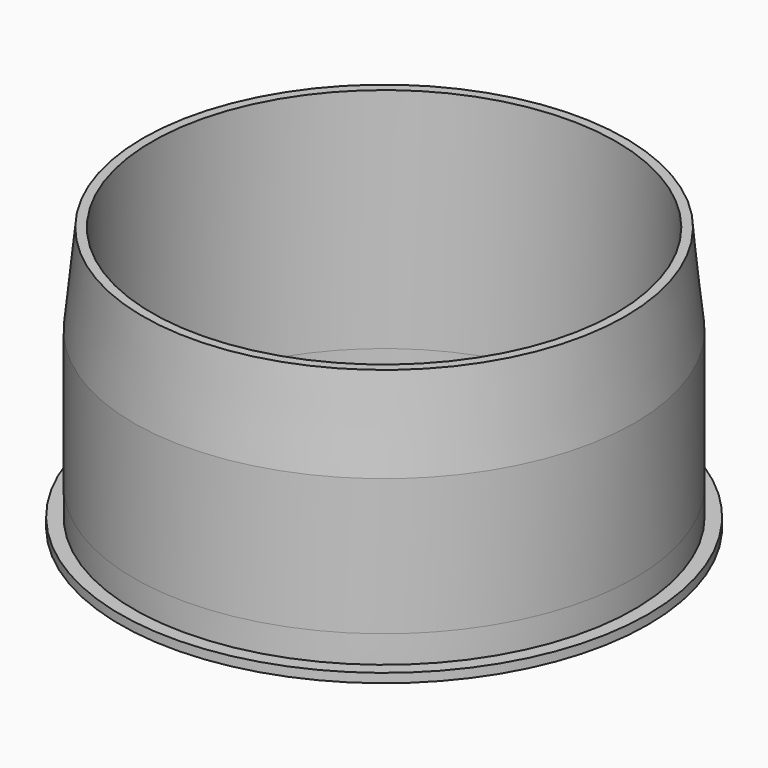
from build123d import *

# Parameters (mm, degrees)
SKETCH011_R          = 27.5
SKETCH011_R_2        = 25.5
PAD001_DEPTH         = 25
CHAMFER002_SIZE2     = 1
CHAMFER002_SIZE      = 10
CHAMFER002_FACE3_R   = 27.5
CHAMFER002_FACE3_R_2 = 25.5
PAD002_DEPTH         = 3
SKETCH012_R          = 29
SKETCH012_R_2        = 25.5
PAD003_DEPTH         = 1


with BuildPart() as part:
    # Sketch011 (on Face1 of CopyChamfer001) → Pad001 (new body)
    with BuildSketch(Plane.XY.offset(72)):
        with Locations((0, 80)):
            Circle(SKETCH011_R)
        with Locations((0, 80)):
            Circle(SKETCH011_R_2, mode=Mode.SUBTRACT)
    extrude(amount=PAD001_DEPTH)

    # Chamfer002
    chamfer002_edges = [part.edges().sort_by_distance(p)[0] for p in [
        (-27.5, 80, 97),
    ]]
    chamfer002_side = part.faces().sort_by_distance((-27.5, 80, 84.5))[0]
    chamfer(chamfer002_edges, length=CHAMFER002_SIZE, length2=CHAMFER002_SIZE2, reference=chamfer002_side)

    # Chamfer002 Face3 → Pad002 (add)
    with BuildSketch(Plane(origin=(0, 80, 72), x_dir=(0, -1, 0), z_dir=(0, 0, -1))):
        Circle(CHAMFER002_FACE3_R)
        Circle(CHAMFER002_FACE3_R_2, mode=Mode.SUBTRACT)
    extrude(amount=PAD002_DEPTH)

    # Sketch012 (on Face5 of Pad002) → Pad003 (join)
    with BuildSketch(Plane(origin=(0, 0, 69), x_dir=(1, 0, 0), z_dir=(0, 0, -1))):
        with Locations((0, -80)):
            Circle(SKETCH012_R)
        with Locations((0, -80)):
            Circle(SKETCH012_R_2, mode=Mode.SUBTRACT)
    extrude(amount=PAD003_DEPTH)


solid = part.part
